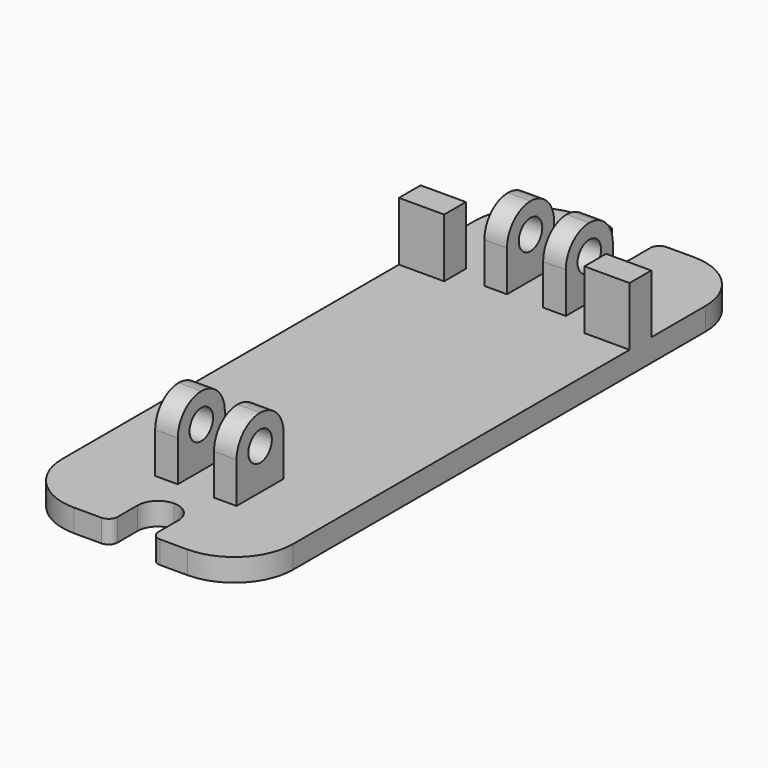
from build123d import *

# Parameters (mm, degrees)
F1_DEPTH  = 10
F2_R      = 4
F3_W      = 10
F3_H      = 26
F4_DEPTH  = 31
F5_R      = 6.5
F6_DEPTH  = 69.001
F7_R      = 6.5
F8_DEPTH  = 69.001
F9_W      = 20
F9_H      = 12
F10_DEPTH = 26


with BuildPart() as f1:
    # F0 (on Top) → F1 (new body)
    with BuildSketch(Plane.XY):
        with BuildLine():
            Line((-9, 140), (-25, 140))
            ThreePointArc((-25, 140), (-43.384776, 132.384776), (-51, 114))
            Line((-51, 114), (-51, -114))
            ThreePointArc((-51, -114), (-43.384776, -132.384776), (-25, -140))
            Line((-25, -140), (-9, -140))
            Line((-9, -140), (-9, -125))
            ThreePointArc((-9, -125), (-6.363961, -118.636039), (0, -116))
            ThreePointArc((0, -116), (6.363961, -118.636039), (9, -125))
            Line((9, -125), (9, -140))
            Line((9, -140), (25, -140))
            ThreePointArc((25, -140), (43.384776, -132.384776), (51, -114))
            Line((51, -114), (51, 114))
            ThreePointArc((51, 114), (43.384776, 132.384776), (25, 140))
            Line((25, 140), (9, 140))
            Line((9, 140), (9, 125))
            ThreePointArc((9, 125), (6.363961, 118.636039), (0, 116))
            ThreePointArc((0, 116), (-6.363961, 118.636039), (-9, 125))
            Line((-9, 125), (-9, 140))
        make_face()
    extrude(amount=F1_DEPTH)

    # F2
    f2_edges = [f1.edges().sort_by_distance(p)[0] for p in [
        (-9, -140, 5),
        (9, -140, 5),
        (-9, 140, 5),
        (9, 140, 5),
    ]]
    fillet(f2_edges, radius=F2_R)

    # F3 (on face) → F4 (join)
    with BuildSketch(Plane.XY.offset(10)):
        with Locations((13, -91)):
            Rectangle(F3_W, F3_H)
        with Locations((-13, -91)):
            Rectangle(F3_W, F3_H)
        with Locations((-13, 91)):
            Rectangle(F3_W, F3_H)
        with Locations((13, 91)):
            Rectangle(F3_W, F3_H)
    extrude(amount=F4_DEPTH)

    # F5 (on face) → F6 (cut, through all)
    with BuildSketch(Plane.YZ.offset(18)):
        with Locations((-91, 28)):
            Circle(F5_R)
        with BuildLine():
            Line((-78, 41), (-91, 41))
            ThreePointArc((-91, 41), (-81.807612, 37.192388), (-78, 28))
            Line((-78, 28), (-78, 41))
        make_face()
        with BuildLine():
            Line((-104, 41), (-104, 28))
            ThreePointArc((-104, 28), (-100.192388, 37.192388), (-91, 41))
            Line((-91, 41), (-104, 41))
        make_face()
    extrude(amount=-F6_DEPTH, mode=Mode.SUBTRACT)

    # F7 (on face) → F8 (cut, through all)
    with BuildSketch(Plane.YZ.offset(18)):
        with Locations((91, 28)):
            Circle(F7_R)
        with BuildLine():
            Line((78, 41), (78, 28))
            ThreePointArc((78, 28), (81.807612, 37.192388), (91, 41))
            Line((91, 41), (78, 41))
        make_face()
        with BuildLine():
            Line((104, 41), (91, 41))
            ThreePointArc((91, 41), (100.192388, 37.192388), (104, 28))
            Line((104, 28), (104, 41))
        make_face()
    extrude(amount=-F8_DEPTH, mode=Mode.SUBTRACT)

    # F9 (on face) → F10 (join)
    with BuildSketch(Plane.XY.offset(10)):
        with Locations((41, 78)):
            Rectangle(F9_W, F9_H)
        with Locations((-41, 78)):
            Rectangle(F9_W, F9_H)
    extrude(amount=F10_DEPTH)


solid = f1.part
